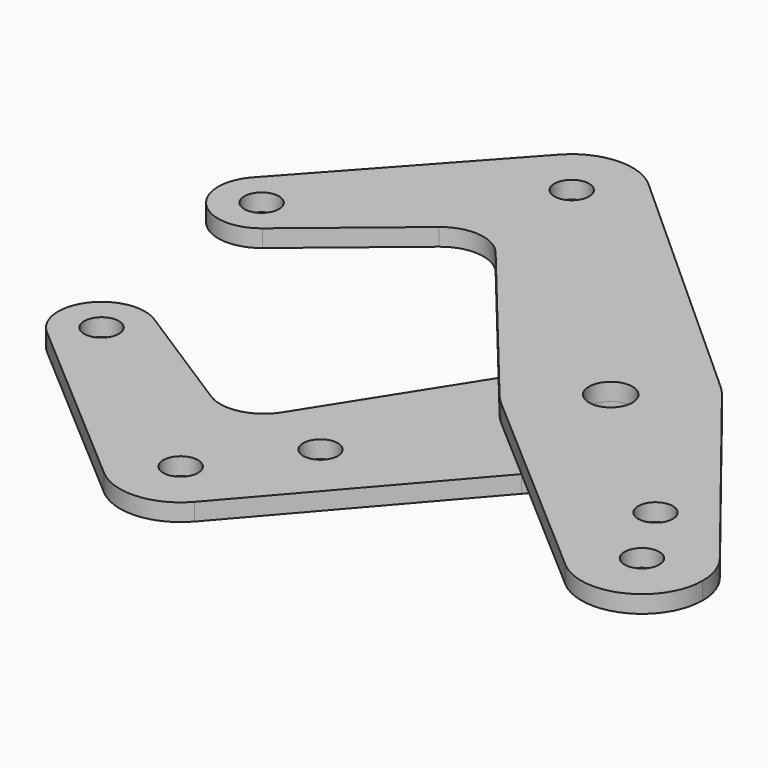
from build123d import *

# Parameters (mm, degrees)
F0_R     = 3.175
F0_R_2   = 3.9751
F1_DEPTH = 3.175
F2_DEPTH = 3.175


with BuildPart() as f1:
    # F0 (on Top) → F1 (new body)
    with BuildSketch(Plane.XY):
        with BuildLine():
            ThreePointArc((-44.0009005319, 77.3943486688), (-35.2635900351, 79.4665369013), (-30.1842477493, 72.0614818218))
            ThreePointArc((-30.1842477493, 72.0614818218), (-30.9397613954, 68.6816921445), (-33.0624784927, 65.9452983027))
            Line((-33.0624784927, 65.9452983027), (-13.6406578909, 82.0109084287))
            ThreePointArc((-13.6406578909, 82.0109084287), (-7.8105762475, 83.7984680624), (-2.4292172692, 80.9303333098))
            Line((-2.4292172692, 80.9303333098), (18.3331737458, 55.6467356365))
            Line((18.3331737458, 55.6467356365), (24.468560012, 65.3426664186))
            ThreePointArc((24.468560012, 65.3426664186), (35.7193529209, 72.580824264), (48.5069785293, 68.6504424286))
            Line((48.5069785293, 68.6504424286), (1.454177367, 111.0249925327))
            ThreePointArc((1.454177367, 111.0249925327), (4.1696730105, 107.2868786877), (5.1301864732, 102.7674953673))
            ThreePointArc((5.1301864732, 102.7674953673), (-2.2370578873, 92.3051478083), (-14.5702799285, 95.7152269852))
            ThreePointArc((-14.5702799285, 95.7152269852), (-17.0914525798, 103.0407823073), (-14.2131274225, 110.2335089532))
            Line((-14.2131274225, 110.2335089532), (-44.0009005319, 77.3943486688))
        make_face()
        with BuildLine():
            ThreePointArc((-33.0624784927, 65.9452983027), (-30.9397613954, 68.6816921445), (-30.1842477493, 72.0614818218))
            ThreePointArc((-30.1842477493, 72.0614818218), (-35.2635900351, 79.4665369013), (-44.0009005319, 77.3943486688))
            ThreePointArc((-44.0009005319, 77.3943486688), (-43.8609324319, 66.5782651172), (-33.0624784927, 65.9452983027))
        make_face()
        with Locations((-38.1217477493, 72.0614818218)):
            Circle(F0_R, mode=Mode.SUBTRACT)
        with BuildLine():
            ThreePointArc((1.454177367, 111.0249925327), (-6.5429817192, 113.8658424257), (-14.2131274225, 110.2335089532))
            ThreePointArc((-14.2131274225, 110.2335089532), (-17.0914525798, 103.0407823073), (-14.5702799285, 95.7152269852))
            ThreePointArc((-14.5702799285, 95.7152269852), (-2.2370578873, 92.3051478083), (5.1301864732, 102.7674953673))
            ThreePointArc((5.1301864732, 102.7674953673), (4.1696730105, 107.2868786877), (1.454177367, 111.0249925327))
        make_face()
        with Locations((-5.9823135268, 102.7674953673)):
            Circle(F0_R, mode=Mode.SUBTRACT)
        with BuildLine():
            ThreePointArc((50.3393392297, 66.6960554941), (49.4644596981, 67.711971077), (48.5069785293, 68.6504424286))
            ThreePointArc((48.5069785293, 68.6504424286), (35.7193529209, 72.580824264), (24.468560012, 65.3426664186))
            ThreePointArc((24.468560012, 65.3426664186), (22.0386027323, 55.8755562168), (25.6148966786, 46.7793487893))
            ThreePointArc((25.6148966786, 46.7793487893), (26.5087370655, 45.7800750385), (27.4837072538, 44.8597860631))
            ThreePointArc((27.4837072538, 44.8597860631), (39.0109152986, 41.0191077522), (49.8776519532, 46.4543050507))
            ThreePointArc((49.8776519532, 46.4543050507), (52.7566184126, 51.3039190568), (53.7584201097, 56.8540179066))
            ThreePointArc((53.7584201097, 56.8540179066), (52.8793085634, 62.0635240717), (50.3393392297, 66.6960554941))
        make_face()
        with Locations((37.8834201097, 56.8540179066)):
            Circle(F0_R_2, mode=Mode.SUBTRACT)
        with BuildLine():
            Line((81.6951504029, 27.0126622493), (50.3393392297, 66.6960554941))
            ThreePointArc((50.3393392297, 66.6960554941), (52.8793085634, 62.0635240717), (53.7584201097, 56.8540179066))
            ThreePointArc((53.7584201097, 56.8540179066), (52.7566184126, 51.3039190568), (49.8776519532, 46.4543050507))
            Line((49.8776519532, 46.4543050507), (39.4779390973, 34.4600732072))
            Line((39.4779390973, 34.4600732072), (65.6962080197, 11.7272736476))
            ThreePointArc((65.6962080197, 11.7272736476), (61.9064163854, 21.0988482886), (67.2769706315, 29.663080827))
            ThreePointArc((67.2769706315, 29.663080827), (74.9850966702, 31.0526098918), (81.6951504029, 27.0126622493))
        make_face()
        with BuildLine():
            ThreePointArc((68.8236746297, 32.3887508603), (68.4100569652, 30.821781621), (67.2769706315, 29.663080827))
            ThreePointArc((67.2769706315, 29.663080827), (62.8872922942, 33.9557200997), (68.8236746297, 32.3887508603))
        make_face(mode=Mode.SUBTRACT)
        with BuildLine():
            ThreePointArc((84.0885070188, 20.123235938), (83.4731289364, 23.7698902536), (81.6951504029, 27.0126622493))
            ThreePointArc((81.6951504029, 27.0126622493), (74.9850966702, 31.0526098918), (67.2769706315, 29.663080827))
            ThreePointArc((67.2769706315, 29.663080827), (61.9064163854, 21.0988482886), (65.6962080197, 11.7272736476))
            ThreePointArc((65.6962080197, 11.7272736476), (77.5907058103, 10.0142196004), (84.0885070188, 20.123235938))
        make_face()
        with Locations((72.9760070188, 20.123235938)):
            Circle(F0_R, mode=Mode.SUBTRACT)
        with BuildLine():
            ThreePointArc((49.8776519532, 46.4543050507), (39.0109152986, 41.0191077522), (27.4837072538, 44.8597860631))
            Line((27.4837072538, 44.8597860631), (39.4779390973, 34.4600732072))
            Line((39.4779390973, 34.4600732072), (49.8776519532, 46.4543050507))
        make_face()
        with BuildLine():
            Line((24.468560012, 65.3426664186), (18.3331737458, 55.6467356365))
            Line((18.3331737458, 55.6467356365), (25.6148966786, 46.7793487893))
            ThreePointArc((25.6148966786, 46.7793487893), (22.0386027323, 55.8755562168), (24.468560012, 65.3426664186))
        make_face()
    extrude(amount=F1_DEPTH)


with BuildPart() as f2:
    # F0 (on Top) → F2 (new body)
    with BuildSketch(Plane.XY):
        with BuildLine():
            Line((25.6148966786, 46.7793487893), (18.3331737458, 55.6467356365))
            Line((18.3331737458, 55.6467356365), (0.8393347377, 28.0007090011))
            ThreePointArc((0.8393347377, 28.0007090011), (-4.148252577, 24.4922628792), (-10.1539730794, 25.5489287014))
            Line((-10.1539730794, 25.5489287014), (-31.4048845104, 39.1028841227))
            ThreePointArc((-31.4048845104, 39.1028841227), (-28.713184236, 36.2267244144), (-27.7357010841, 32.4106961489))
            ThreePointArc((-27.7357010841, 32.4106961489), (-32.3640640938, 25.195883703), (-40.8515482978, 26.3949978199))
            Line((-40.8515482978, 26.3949978199), (-7.2496860991, -2.5296755885))
            ThreePointArc((-7.2496860991, -2.5296755885), (-10.9911093454, 4.2542631204), (-9.3904020683, 11.8343560305))
            ThreePointArc((-9.3904020683, 11.8343560305), (3.0932841177, 16.5655981711), (11.1125, 5.8923020721))
            ThreePointArc((11.1125, 5.8923020721), (10.411238812, 2.0072328773), (8.3959622905, -1.387496927))
            Line((8.3959622905, -1.387496927), (39.4779390973, 34.4600732072))
            Line((39.4779390973, 34.4600732072), (27.4837072538, 44.8597860631))
            ThreePointArc((27.4837072538, 44.8597860631), (26.5087370655, 45.7800750385), (25.6148966786, 46.7793487893))
        make_face()
        with Locations((12.3196882197, 22.4650520615)):
            Circle(F0_R, mode=Mode.SUBTRACT)
        with BuildLine():
            ThreePointArc((50.3393392297, 66.6960554941), (49.4644596981, 67.711971077), (48.5069785293, 68.6504424286))
            ThreePointArc((48.5069785293, 68.6504424286), (35.7193529209, 72.580824264), (24.468560012, 65.3426664186))
            ThreePointArc((24.468560012, 65.3426664186), (22.0386027323, 55.8755562168), (25.6148966786, 46.7793487893))
            ThreePointArc((25.6148966786, 46.7793487893), (26.5087370655, 45.7800750385), (27.4837072538, 44.8597860631))
            ThreePointArc((27.4837072538, 44.8597860631), (39.0109152986, 41.0191077522), (49.8776519532, 46.4543050507))
            ThreePointArc((49.8776519532, 46.4543050507), (52.7566184126, 51.3039190568), (53.7584201097, 56.8540179066))
            ThreePointArc((53.7584201097, 56.8540179066), (52.8793085634, 62.0635240717), (50.3393392297, 66.6960554941))
        make_face()
        with Locations((37.8834201097, 56.8540179066)):
            Circle(F0_R_2, mode=Mode.SUBTRACT)
        with BuildLine():
            Line((24.468560012, 65.3426664186), (18.3331737458, 55.6467356365))
            Line((18.3331737458, 55.6467356365), (25.6148966786, 46.7793487893))
            ThreePointArc((25.6148966786, 46.7793487893), (22.0386027323, 55.8755562168), (24.468560012, 65.3426664186))
        make_face()
        with BuildLine():
            ThreePointArc((49.8776519532, 46.4543050507), (39.0109152986, 41.0191077522), (27.4837072538, 44.8597860631))
            Line((27.4837072538, 44.8597860631), (39.4779390973, 34.4600732072))
            Line((39.4779390973, 34.4600732072), (49.8776519532, 46.4543050507))
        make_face()
        with BuildLine():
            ThreePointArc((-7.2496860991, -2.5296755885), (0.8090922694, -5.1907041063), (8.3959622905, -1.387496927))
            ThreePointArc((8.3959622905, -1.387496927), (10.411238812, 2.0072328773), (11.1125, 5.8923020721))
            ThreePointArc((11.1125, 5.8923020721), (3.0932841177, 16.5655981711), (-9.3904020683, 11.8343560305))
            ThreePointArc((-9.3904020683, 11.8343560305), (-10.9911093454, 4.2542631204), (-7.2496860991, -2.5296755885))
        make_face()
        with Locations((0, 5.8923020721)):
            Circle(F0_R, mode=Mode.SUBTRACT)
        with BuildLine():
            ThreePointArc((-27.7357010841, 32.4106961489), (-28.713184236, 36.2267244144), (-31.4048845104, 39.1028841227))
            ThreePointArc((-31.4048845104, 39.1028841227), (-42.0434155634, 37.1461236626), (-40.8515482978, 26.3949978199))
            ThreePointArc((-40.8515482978, 26.3949978199), (-32.3640640938, 25.195883703), (-27.7357010841, 32.4106961489))
        make_face()
        with Locations((-35.6732010841, 32.4106961489)):
            Circle(F0_R, mode=Mode.SUBTRACT)
    extrude(amount=-F2_DEPTH)


solid = Compound([f1.part, f2.part])
